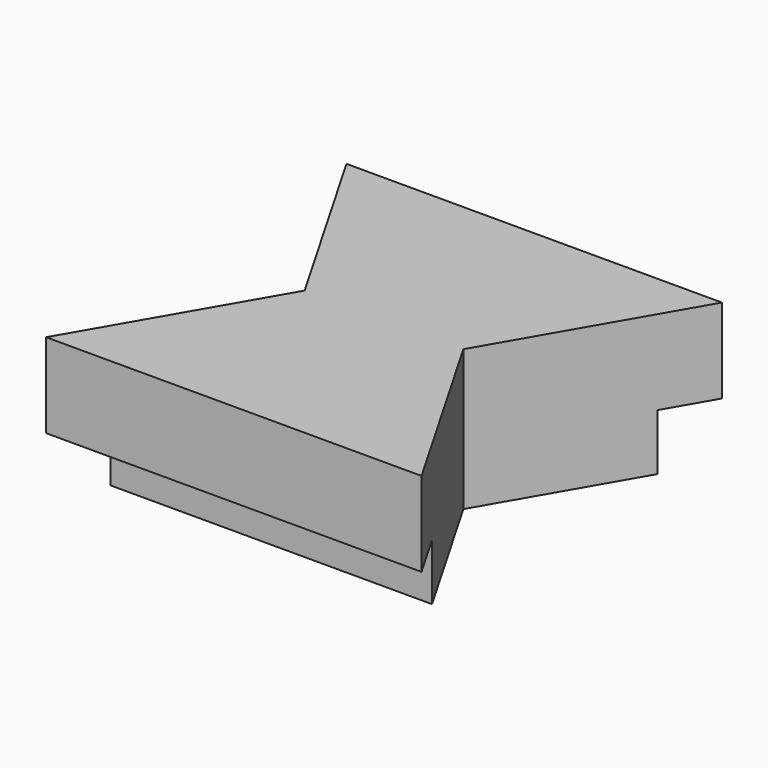
from build123d import *

# Parameters (mm, degrees)
F1_DEPTH      = 19.05
F2_W          = 6.35
F2_H          = 7.62
F3_DEPTH      = 25.401
F3_DEPTH_BACK = 25.4


with BuildPart() as f1:
    # F0 (on Top) → F1 (new body)
    with BuildSketch(Plane.XY):
        Polygon((25.4, 0), (0, 0), (-25.4, 0), (-10.7353031626, -25.4), (-25.4, -50.8), (0, -50.8), (25.4, -50.8), (10.7353031626, -25.4), align=None)
    extrude(amount=F1_DEPTH)

    # F2 (on Right) → F3 (cut, two sides)
    with BuildSketch(Plane.YZ) as f3_sk:
        with Locations((-3.175, 3.81)):
            Rectangle(F2_W, F2_H)
        with Locations((-47.625, 3.81)):
            Rectangle(F2_W, F2_H)
    extrude(amount=-F3_DEPTH, mode=Mode.SUBTRACT)
    extrude(f3_sk.sketch, amount=F3_DEPTH_BACK, mode=Mode.SUBTRACT)


solid = f1.part
